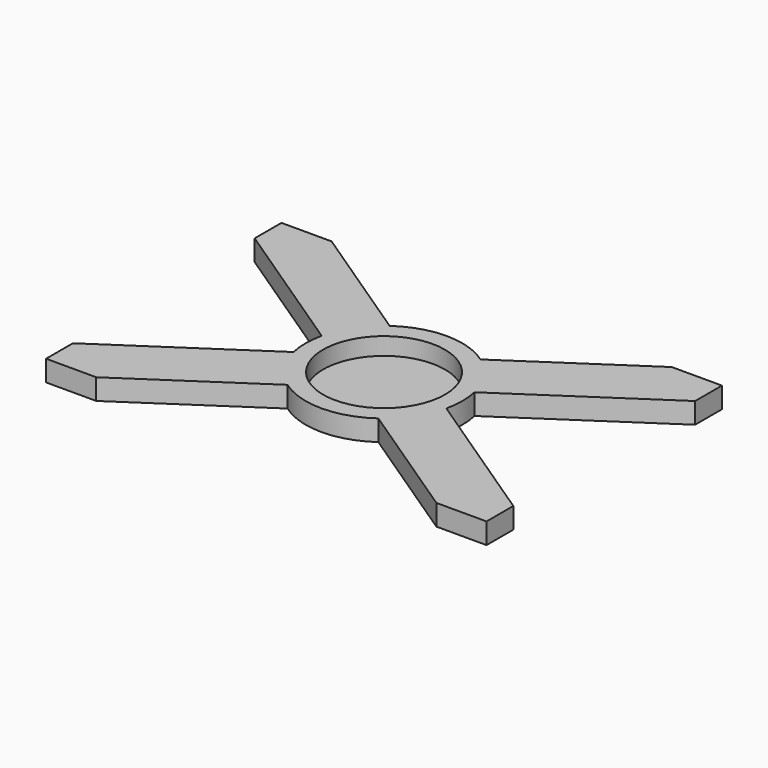
from build123d import *

# Parameters (mm, degrees)
F0_R     = 17.5
F1_DEPTH = 6
F2_DEPTH = 1


with BuildPart() as f1:
    # F0 (on Top) → F1 (new body)
    with BuildSketch(Plane.XY):
        with BuildLine():
            Line((-63.25, -32.629346), (-63.25, -42.25))
            Line((-63.25, -42.25), (-48.847482, -42.25))
            Line((-48.847482, -42.25), (-13.043494, -18.333501))
            ThreePointArc((-13.043494, -18.333501), (0, -22.5), (13.043494, -18.333501))
            Line((13.043494, -18.333501), (48.847482, -42.25))
            Line((48.847482, -42.25), (63.25, -42.25))
            Line((63.25, -42.25), (63.25, -32.629346))
            Line((63.25, -32.629346), (21.930829, -5.028793))
            ThreePointArc((21.930829, -5.028793), (22.5, 0), (21.930829, 5.028793))
            Line((21.930829, 5.028793), (63.25, 32.629346))
            Line((63.25, 32.629346), (63.25, 42.25))
            Line((63.25, 42.25), (48.847482, 42.25))
            Line((48.847482, 42.25), (13.043494, 18.333501))
            ThreePointArc((13.043494, 18.333501), (0, 22.5), (-13.043494, 18.333501))
            Line((-13.043494, 18.333501), (-48.847482, 42.25))
            Line((-48.847482, 42.25), (-63.25, 42.25))
            Line((-63.25, 42.25), (-63.25, 32.629346))
            Line((-63.25, 32.629346), (-21.930829, 5.028793))
            ThreePointArc((-21.930829, 5.028793), (-22.5, 0), (-21.930829, -5.028793))
            Line((-21.930829, -5.028793), (-63.25, -32.629346))
        make_face()
        Circle(F0_R, mode=Mode.SUBTRACT)
    extrude(amount=F1_DEPTH)

    # F0 (on Top) → F2 (join)
    with BuildSketch(Plane.XY):
        Circle(F0_R)
    extrude(amount=F2_DEPTH)


solid = f1.part
